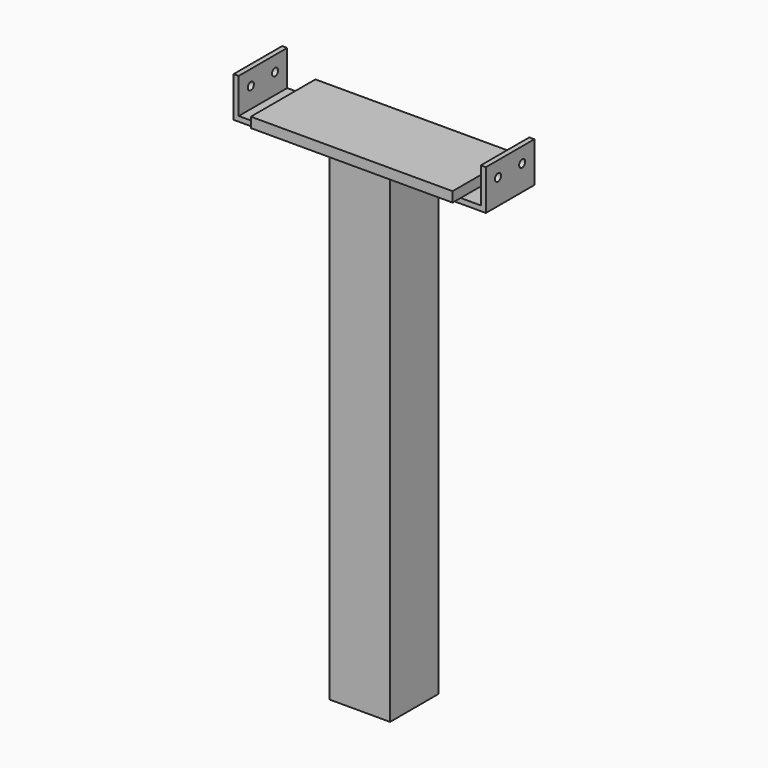
from build123d import *

# Parameters (mm, degrees)
F0_W      = 63.5
F0_H      = 63.5
F1_DEPTH  = 609.6
F2_W      = 254
F2_H      = 101.6
F3_DEPTH  = 12.7
F4_W      = 50.8
F4_H      = 76.2
F5_DEPTH  = 6.35
F6_W      = 6.35
F6_H      = 76.2
F7_DEPTH  = 44.45
F8_W      = 6.35
F8_H      = 76.2
F9_DEPTH  = 44.45
F10_R     = 4.7625
F11_DEPTH = 381


with BuildPart() as f1:
    # F0 (on Top) → F1 (new body)
    with BuildSketch(Plane.XY):
        Polygon((0, 76.2), (0, 0), (76.2, 0), (76.2, 76.2), (6.35, 76.2), (5.991533, 76.2), align=None)
        with Locations((38.1, 38.1)):
            Rectangle(F0_W, F0_H, mode=Mode.SUBTRACT)
    extrude(amount=F1_DEPTH)

    # F2 (on face) → F3 (join)
    with BuildSketch(Plane.XY.offset(609.6)):
        with Locations((38.1, 38.1)):
            Rectangle(F2_W, F2_H)
    extrude(amount=F3_DEPTH)

    # F4 (on face) → F5 (join)
    with BuildSketch(Plane(origin=(0, 0, 609.6), x_dir=(1, 0, 0), z_dir=(0, 0, -1))):
        Polygon((-69.85, 0), (-88.9, 0), (-120.65, 0), (-120.65, -76.2), (-69.85, -76.2), align=None)
        with Locations((171.45, -38.1)):
            Rectangle(F4_W, F4_H)
    extrude(amount=F5_DEPTH)

    # F6 (on face) → F7 (join)
    with BuildSketch(Plane.XY.offset(609.6)):
        with Locations((-117.475, 38.1)):
            Rectangle(F6_W, F6_H)
    extrude(amount=F7_DEPTH)

    # F8 (on face) → F9 (join)
    with BuildSketch(Plane.XY.offset(609.6)):
        with Locations((193.675, 38.1)):
            Rectangle(F8_W, F8_H)
    extrude(amount=F9_DEPTH)

    # F10 (on face) → F11 (cut)
    with BuildSketch(Plane.YZ.offset(196.85)):
        with Locations((19.05, 635)):
            Circle(F10_R)
        with Locations((57.15, 635)):
            Circle(F10_R)
    extrude(amount=-F11_DEPTH, mode=Mode.SUBTRACT)


solid = f1.part
